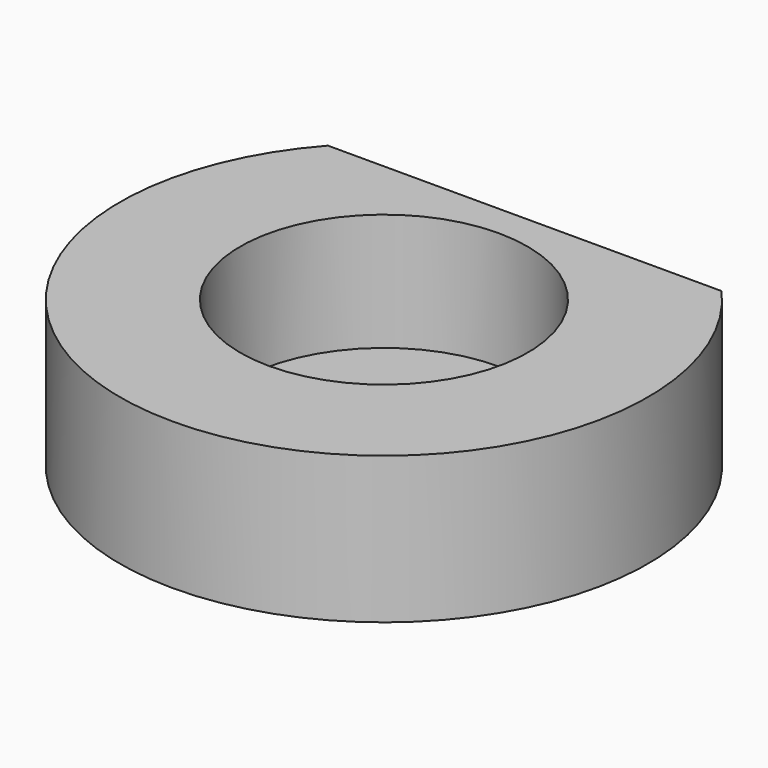
from build123d import *

# Parameters (mm, degrees)
BOX002_W               = 10
BOX002_H               = 35
BOX002_DEPTH           = 15
CYLINDER015_R          = 9.8
CYLINDER015_DEPTH      = 110
CYLINDER014_R          = 18
CYLINDER014_DEPTH      = 10
CUT003_PLACEMENT_ANGLE = 90


with BuildPart() as cube002:
    # Box002 → Box002 (new body)
    with BuildSketch(Plane(origin=(-22, -18.5, -3), x_dir=(1, 0, 0), z_dir=(0, 0, 1))):
        with Locations((5, 17.5)):
            Rectangle(BOX002_W, BOX002_H)
    extrude(amount=BOX002_DEPTH)


with BuildPart() as main_axis002:
    # Cylinder015 → Cylinder015 (new body)
    with BuildSketch(Plane.XY):
        Circle(CYLINDER015_R)
    extrude(amount=CYLINDER015_DEPTH)


with BuildPart() as main_axis_holder:
    # Cylinder014 → Cylinder014 (new body)
    with BuildSketch(Plane.XY.offset(-2)):
        Circle(CYLINDER014_R)
    extrude(amount=CYLINDER014_DEPTH)

    # Cut002: cut main_axis002
    add(main_axis002.part, mode=Mode.SUBTRACT)

    # Cut003: cut Cube002
    add(cube002.part, mode=Mode.SUBTRACT)


with BuildPart() as main_axis_holder_1:
    # Cut003 placement: moved
    add(main_axis_holder.part.rotate(Axis((0, 0, 0), (0, 0, -1)), CUT003_PLACEMENT_ANGLE))


solid = main_axis_holder_1.part
